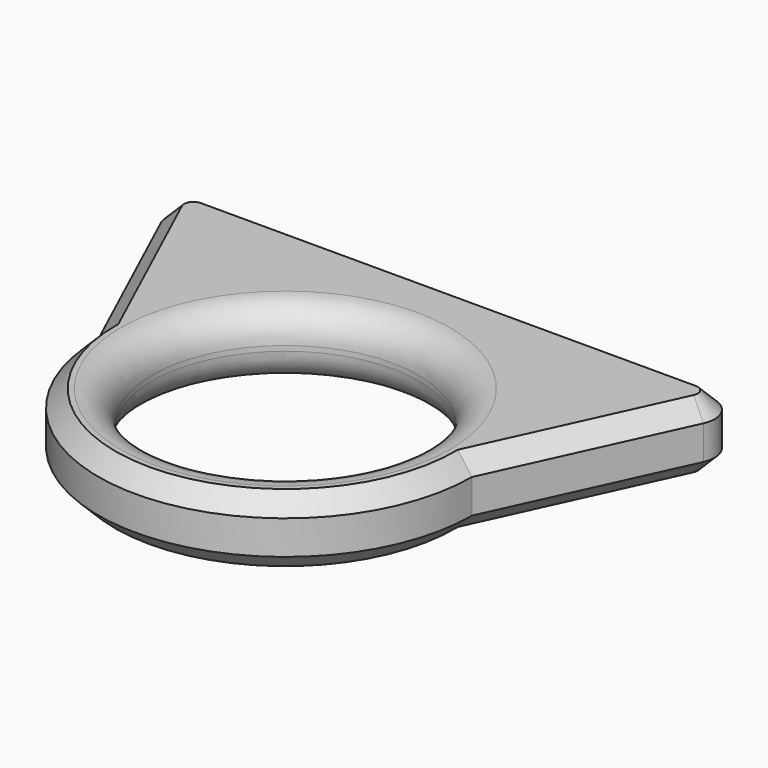
from build123d import *

# Parameters (mm, degrees)
SKETCH_R     = 7.85
PAD_DEPTH    = 4
FILLET_R     = 1.85
CHAMFER_SIZE = 1


with BuildPart() as part:
    # Sketch → Pad (new body)
    with BuildSketch(Plane.XY):
        with BuildLine():
            ThreePointArc((-11.001607, 0), (-0.009069, -10.999997), (10.998383, -0.014925))
            Line((15.968624, 10.800985), (10.998383, -0.014925))
            ThreePointArc((15.968624, 10.800985), (15.865486, 12.279709), (14.564905, 12.990872))
            Line((-14.567237, 12.990872), (14.564905, 12.990872))
            ThreePointArc((-14.567237, 12.990872), (-15.866325, 12.280427), (-15.969093, 10.803336))
            Line((-11.001607, 0), (-15.969093, 10.803336))
        make_face()
        Circle(SKETCH_R, mode=Mode.SUBTRACT)
    extrude(amount=PAD_DEPTH)

    # Fillet
    fillet_edges = [part.edges().sort_by_distance(p)[0] for p in [
        (-7.85, 0, 4),
        (-7.85, 0, 0),
    ]]
    fillet(fillet_edges, radius=FILLET_R)

    # Chamfer
    chamfer_edges = [part.edges().sort_by_distance(p)[0] for p in [
        (15.968624, 10.800985, 2),
        (13.483504, 5.39303, 4),
        (15.865486, 12.279709, 4),
        (-0.001166, 12.990872, 4),
        (-15.866325, 12.280427, 4),
        (-13.48535, 5.401668, 4),
        (-0.009069, -10.999997, 4),
        (-9.7, 0, 4),
        (-0.009069, -10.999997, 0),
        (13.483504, 5.39303, 0),
        (15.865486, 12.279709, 0),
        (-0.001166, 12.990872, 0),
        (-13.48535, 5.401668, 0),
    ]]
    chamfer(chamfer_edges, length=CHAMFER_SIZE)


solid = part.part
